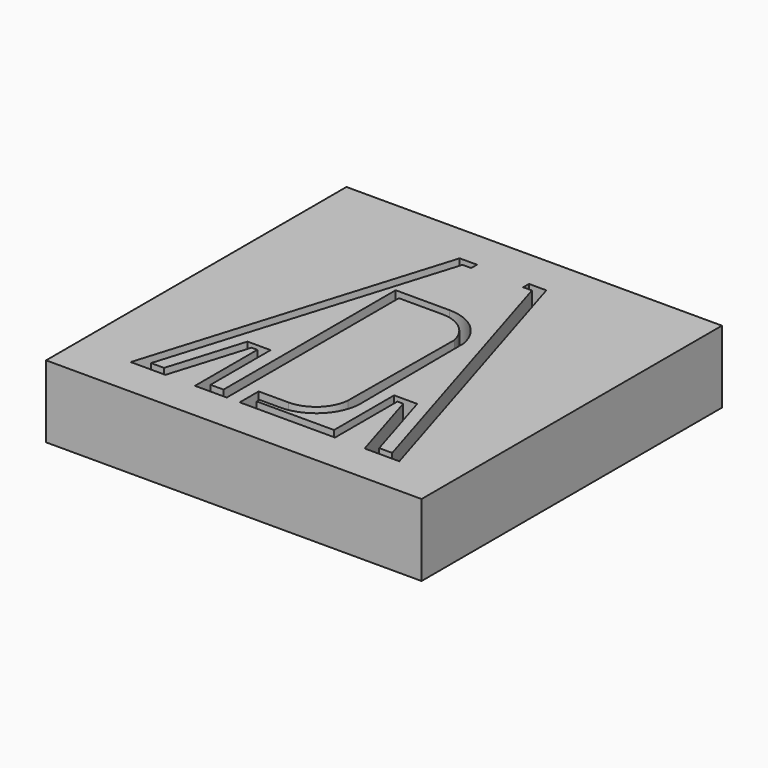
from build123d import *

# Parameters (mm, degrees)
F0_W     = 130
F0_H     = 130
F1_DEPTH = 25


with BuildPart() as f1:
    # F0 (on Top) → F1 (new body)
    with BuildSketch(Plane.XY):
        with Locations((-0.584693, 3.311556)):
            Rectangle(F0_W, F0_H)
        with BuildLine():
            Line((-15.594432, 54.811556), (-9.594432, 54.811556))
            Line((-9.594432, 54.811556), (-9.594432, 52.311556))
            Line((-9.594432, 52.311556), (-12.594432, 52.311556))
            Line((-12.594432, 52.311556), (-42.41335, -45.22173))
            Line((-42.41335, -45.22173), (-37.91335, -45.22173))
            Line((-37.91335, -45.22173), (-29.92532, -19.09406))
            Line((-29.92532, -19.09406), (-21.92532, -19.09406))
            Line((-21.92532, -19.09406), (-21.92532, -45.09406))
            Line((-21.92532, -45.09406), (-17.42532, -45.09406))
            Line((-17.42532, -45.09406), (-17.42532, 29.40594))
            Line((-17.42532, 29.40594), (1.170036, 29.40594))
            ThreePointArc((1.170036, 29.40594), (11.137538, 25.758417), (16.396462, 16.538914))
            Line((16.396462, 16.538914), (16.663941, -29.106018))
            ThreePointArc((16.663941, -29.106018), (11.736324, -39.489004), (1.045823, -43.708128))
            Line((1.045823, -43.708128), (-6.094494, -43.708128))
            Line((-6.094494, -43.708128), (-6.094494, -44.908128))
            Line((-6.094494, -44.908128), (20.69909, -44.908128))
            Line((20.69909, -44.908128), (20.69909, -18.908128))
            Line((20.69909, -18.908128), (28.69909, -18.908128))
            Line((28.69909, -18.908128), (36.84589, -45.55511))
            Line((36.84589, -45.55511), (41.34589, -45.55511))
            Line((41.34589, -45.55511), (11.425047, 52.311556))
            Line((11.425047, 52.311556), (8.425047, 52.311556))
            Line((8.425047, 52.311556), (8.425047, 54.811556))
            Line((8.425047, 54.811556), (14.425047, 54.811556))
            Line((14.425047, 54.811556), (45.915307, -48.188444))
            Line((45.915307, -48.188444), (33.915307, -48.188444))
            Line((33.915307, -48.188444), (25.660579, -21.188444))
            Line((25.660579, -21.188444), (23.660579, -21.188444))
            Line((23.660579, -21.188444), (23.660579, -48.188444))
            Line((23.660579, -48.188444), (-9.339421, -48.188444))
            Line((-9.339421, -48.188444), (-9.339421, -39.988444))
            Line((-9.339421, -39.988444), (1.045823, -39.988444))
            ThreePointArc((1.045823, -39.988444), (9.070223, -36.852271), (12.841448, -29.106018))
            Line((12.841448, -29.106018), (13.222281, 16.538914))
            ThreePointArc((13.222281, 16.538914), (8.928276, 23.561392), (1.170036, 26.311556))
            Line((1.170036, 26.311556), (-13.829964, 26.311556))
            Line((-13.829964, 26.311556), (-13.829964, -48.188444))
            Line((-13.829964, -48.188444), (-24.829964, -48.188444))
            Line((-24.829964, -48.188444), (-24.829964, -21.188444))
            Line((-24.829964, -21.188444), (-26.829964, -21.188444))
            Line((-26.829964, -21.188444), (-35.084693, -48.188444))
            Line((-35.084693, -48.188444), (-47.084693, -48.188444))
            Line((-47.084693, -48.188444), (-15.594432, 54.811556))
        make_face(mode=Mode.SUBTRACT)
    extrude(amount=F1_DEPTH)


solid = f1.part
